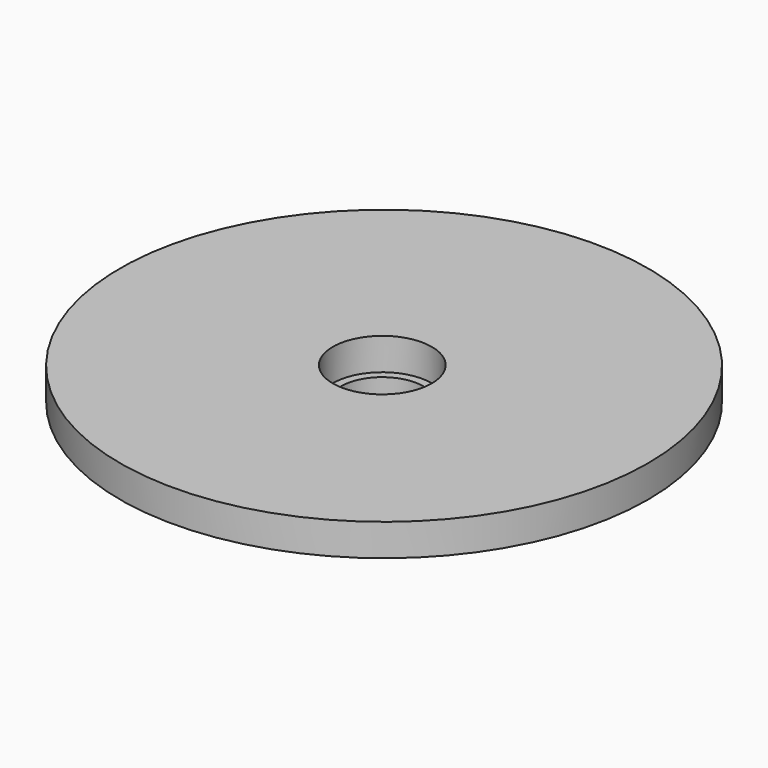
from build123d import *

# Parameters (mm, degrees)
F0_R     = 15.467669
F0_R_2   = 12.866564
F1_DEPTH = 20
F2_R     = 82.433103
F2_R_2   = 15.467669
F3_DEPTH = 10


with BuildPart() as f1:
    # F0 (on Top) → F1 (new body)
    with BuildSketch(Plane.XY):
        Circle(F0_R)
        Circle(F0_R_2, mode=Mode.SUBTRACT)
    extrude(amount=F1_DEPTH)


with BuildPart() as f3:
    # F2 (on face) → F3 (new body)
    with BuildSketch(Plane.XY.offset(20)):
        with Locations((0.561948, 0)):
            Circle(F2_R)
        Circle(F2_R_2, mode=Mode.SUBTRACT)
    extrude(amount=F3_DEPTH)


solid = Compound([f1.part, f3.part])
